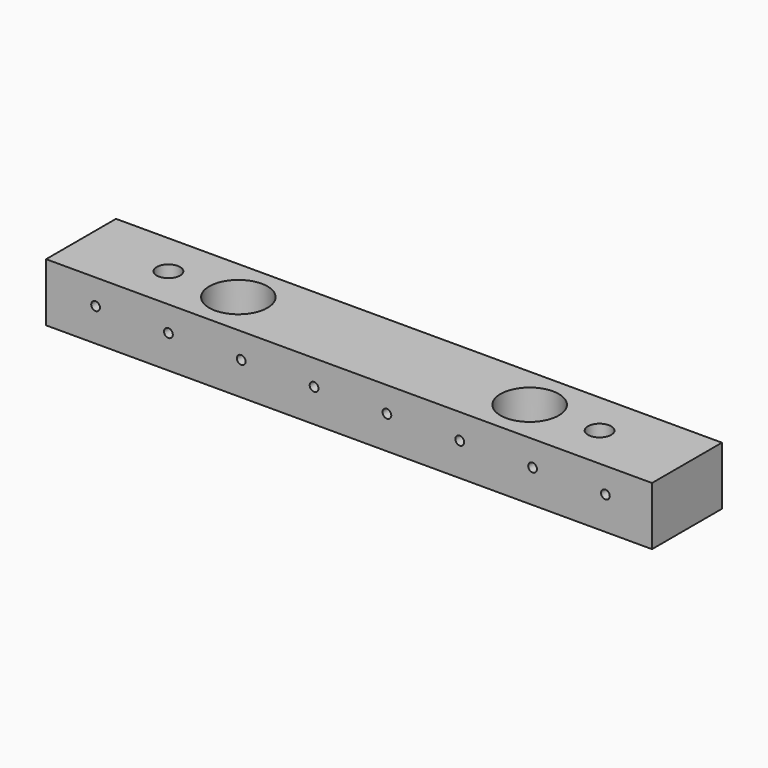
from build123d import *

# Parameters (mm, degrees)
F0_W     = 104
F0_H     = 15
F0_R     = 2
F0_R_2   = 5
F1_DEPTH = 10
F2_R     = 0.75
F3_DEPTH = 25


with BuildPart() as f1:
    # F0 (on Top) → F1 (new body)
    with BuildSketch(Plane.XY):
        Rectangle(F0_W, F0_H)
        with Locations((-37, 0)):
            Circle(F0_R, mode=Mode.SUBTRACT)
        with Locations((-25, 0)):
            Circle(F0_R_2, mode=Mode.SUBTRACT)
        with Locations((25, 0)):
            Circle(F0_R_2, mode=Mode.SUBTRACT)
        with Locations((37, 0)):
            Circle(F0_R, mode=Mode.SUBTRACT)
    extrude(amount=F1_DEPTH)

    # F2 (on face) → F3 (cut)
    with BuildSketch(Plane.XZ.offset(7.5)):
        with Locations((-43.5, 5.666667)):
            Circle(F2_R)
        with Locations((-31, 5.666667)):
            Circle(F2_R)
        with Locations((-18.5, 5.666667)):
            Circle(F2_R)
        with Locations((-6, 5.666667)):
            Circle(F2_R)
        with Locations((6.5, 5.666667)):
            Circle(F2_R)
        with Locations((19, 5.666667)):
            Circle(F2_R)
        with Locations((31.5, 5.666667)):
            Circle(F2_R)
        with Locations((44, 5.666667)):
            Circle(F2_R)
    extrude(amount=-F3_DEPTH, mode=Mode.SUBTRACT)


solid = f1.part
